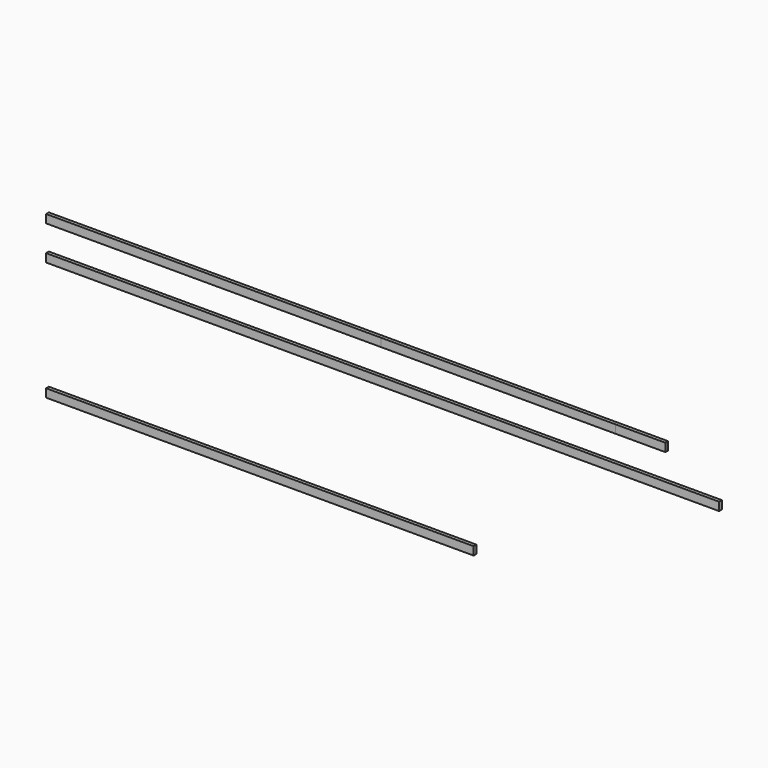
from build123d import *

# Parameters (mm, degrees)
F0_W     = 2430
F0_H     = 60
F0_W_2   = 360
F0_W_3   = 3100
F1_DEPTH = 25
F0_W_4   = 1700
F0_W_5   = 4880
F2_DEPTH = 25


with BuildPart() as f1:
    # F0 (on Front) → F1 (new body)
    with BuildSketch(Plane.XZ):
        with Locations((-1225, -538.840683)):
            Rectangle(F0_W, F0_H)
        with Locations((1870, -538.840683)):
            Rectangle(F0_W_2, F0_H)
        with Locations((-890, -1651.134343)):
            Rectangle(F0_W_3, F0_H)
    extrude(amount=F1_DEPTH)


with BuildPart() as f2:
    # F0 (on Front) → F2 (new body)
    with BuildSketch(Plane.XZ):
        with Locations((840, -538.840683)):
            Rectangle(F0_W_4, F0_H)
        with Locations((0, -788.516731)):
            Rectangle(F0_W_5, F0_H)
    extrude(amount=F2_DEPTH)


solid = Compound([f1.part, f2.part])
